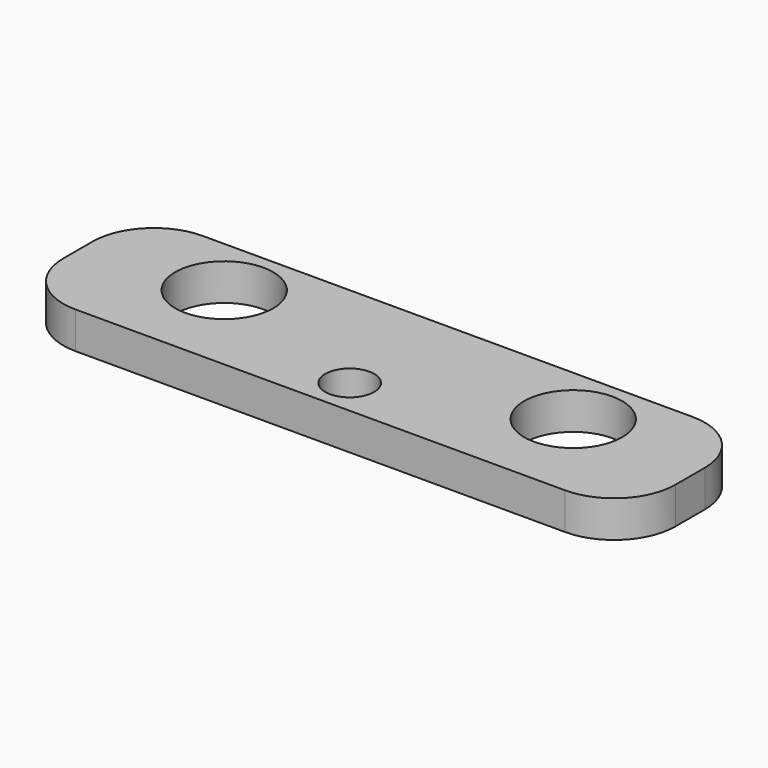
from build123d import *

# Parameters (mm, degrees)
F0_W     = 50
F0_H     = 13
F0_R     = 2
F0_R_2   = 4
F1_DEPTH = 3
F2_R     = 5


with BuildPart() as f1:
    # F0 (on Top) → F1 (new body)
    with BuildSketch(Plane.XY):
        with Locations((0, 0.5)):
            Rectangle(F0_W, F0_H)
        with Locations((0, -3)):
            Circle(F0_R, mode=Mode.SUBTRACT)
        with Locations((-14.25, 2)):
            Circle(F0_R_2, mode=Mode.SUBTRACT)
        with Locations((14.25, 2)):
            Circle(F0_R_2, mode=Mode.SUBTRACT)
    extrude(amount=F1_DEPTH)

    # F2
    f2_edges = [f1.edges().sort_by_distance(p)[0] for p in [
        (-25, 7, 1.5),
        (-25, -6, 1.5),
        (25, -6, 1.5),
        (25, 7, 1.5),
    ]]
    fillet(f2_edges, radius=F2_R)


solid = f1.part
